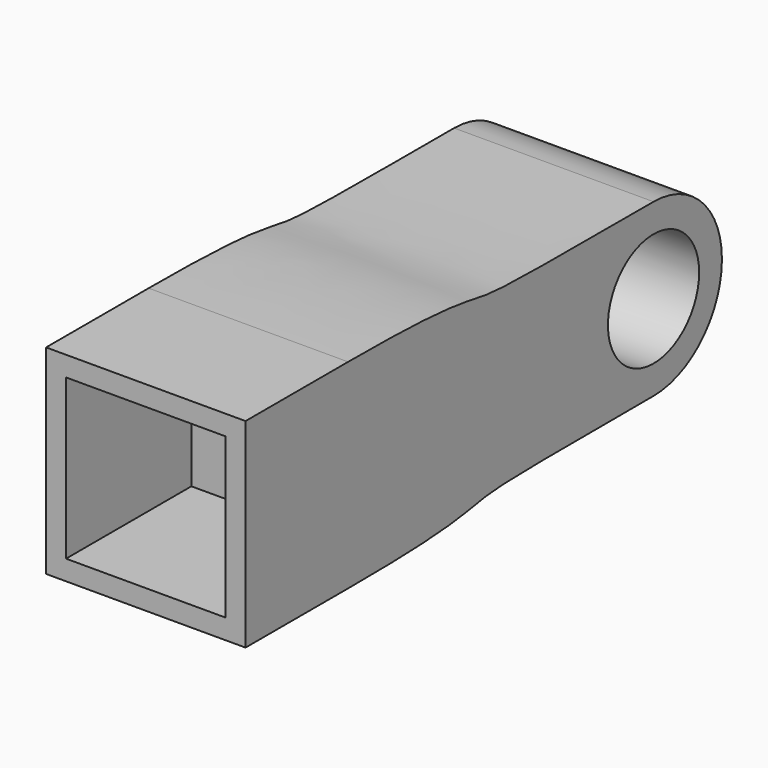
from build123d import *

# Parameters (mm, degrees)
F0_W     = 70
F0_H     = 70
F0_W_2   = 56
F0_H_2   = 56
F1_DEPTH = 55
F2_DEPTH = 380
F3_R     = 20
F4_DEPTH = 70.001


with BuildPart() as f1:
    # F0 (on Front) → F1 (new body)
    with BuildSketch(Plane.XZ):
        Rectangle(F0_W, F0_H)
        Rectangle(F0_W_2, F0_H_2, mode=Mode.SUBTRACT)
    extrude(amount=F1_DEPTH)

    # F0 (on Front) → F2 (join)
    with BuildSketch(Plane.XZ):
        Rectangle(F0_W, F0_H)
        Rectangle(F0_W_2, F0_H_2, mode=Mode.SUBTRACT)
        Rectangle(F0_W_2, F0_H_2)
    extrude(amount=-F2_DEPTH)

    # F3 (on face) → F4 (cut, through all)
    with BuildSketch(Plane.YZ.offset(35)):
        with BuildLine():
            ThreePointArc((124, 30), (145.2132034356, 21.2132034356), (154, 0))
            ThreePointArc((154, 0), (145.2132034356, -21.2132034356), (124, -30))
            add(Edge.make_bspline(
                [(124, -30), (103.2983378934, -30), (72.7074229784, -29.9876599501), (43.9366263473, -30.7832092477), (36.1074860936, -35), (-10, -35)],
                knots=[0, 0, 0, 0, 0.3730126835, 0.6041485586, 1, 1, 1, 1], degree=3))
            Line((-10, -35), (380, -35))
            Line((380, -35), (380, 35))
            Line((380, 35), (-10, 35))
            add(Edge.make_bspline(
                [(124, 30), (103.2983378934, 30), (72.7074229784, 29.9876599501), (43.9366263473, 30.7832092477), (36.1074860936, 35), (-10, 35)],
                knots=[0, 0, 0, 0, 0.3730126835, 0.6041485586, 1, 1, 1, 1], degree=3))
        make_face()
        with Locations((124, 0)):
            Circle(F3_R)
    extrude(amount=-F4_DEPTH, mode=Mode.SUBTRACT)


solid = f1.part
